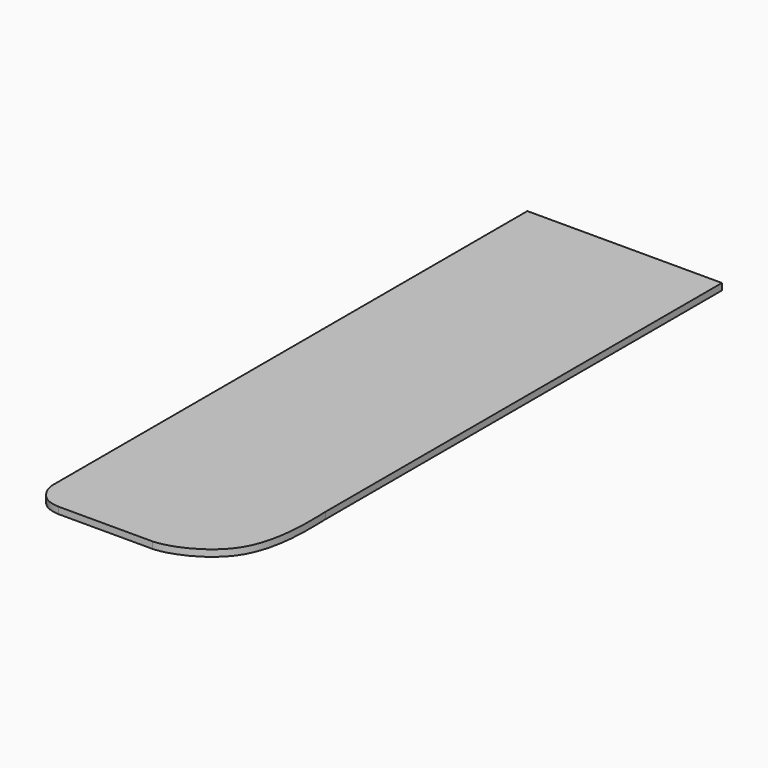
from build123d import *

# Parameters (mm, degrees)
F1_DEPTH = 19.05


with BuildPart() as f1:
    # F0 (on Top) → F1 (new body)
    with BuildSketch(Plane.XY):
        with BuildLine():
            Line((558.8, 0), (0, 0))
            Line((0, 0), (0, -1701.8))
            add(Edge.make_bspline(
                [(0, -1701.8), (0, -1723.0126857758), (20.4032110481, -1762.3765253083), (50.1246452332, -1776.3141393661), (76.2, -1778)],
                knots=[0, 0, 0, 0, 0.502969463, 1, 1, 1, 1], degree=3))
            Line((76.2, -1778), (345.3625738621, -1778))
            add(Edge.make_bspline(
                [(345.3625738621, -1778), (383.3805975649, -1777.7376785993), (581.4711342274, -1711.6133681708), (558.7133577058, -1453.0900991245), (558.8, -1422.4)],
                knots=[0, 0, 0, 0, 0.4748726705, 1, 1, 1, 1], degree=3))
            Line((558.8, -1422.4), (558.8, 0))
        make_face()
    extrude(amount=F1_DEPTH)


solid = f1.part
